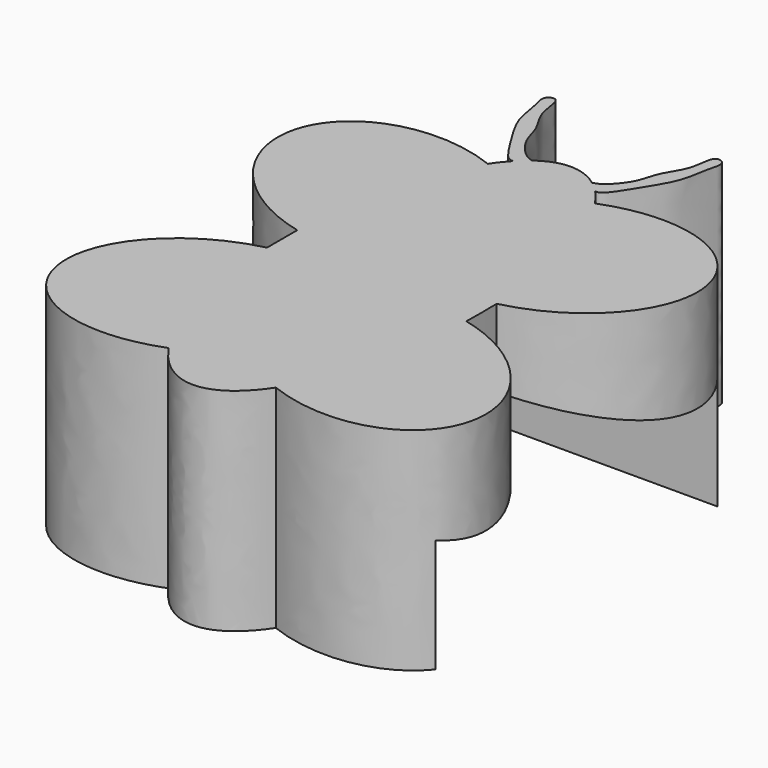
from build123d import *

# Parameters (mm, degrees)
F1_DEPTH = 3
F2_R     = 10
F3_DEPTH = 2.5


with BuildPart() as f1:
    # F0 (on Top) → F1 (new body)
    with BuildSketch(Plane.XY):
        with BuildLine():
            add(Edge.make_bspline(
                [(-0.5790027714, 3.0560637008), (-0.6725914684, 2.9570772689), (-0.7591741745, 2.8272886972)],
                knots=[3.562487737, 3.562487737, 3.562487737, 3.7069491338, 3.7069491338, 3.7069491338], degree=2, weights=[1, 0.9973924971, 1]))
            add(Edge.make_bspline(
                [(-0.7591741745, 2.8272886972), (-2.5828488582, 3.5416014848), (-2.9434149933, 2.1294046992), (-3.3039811285, 0.7172079135), (-1.4125643121, 0.2682146132)],
                knots=[1.5654655575, 1.5654655575, 1.5654655575, 3.2303391632, 3.2303391632, 4.8952127689, 4.8952127689, 4.8952127689], degree=2, weights=[1, 0.6730755649, 1, 0.6730755649, 1]))
            Line((-1.4125643121, 0.2682146132), (-1.4125643121, -0.2682146132))
            add(Edge.make_bspline(
                [(-1.4125643121, -0.2682146132), (-3.3039811285, -0.7172079135), (-2.9434149933, -2.1294046992), (-2.5828488582, -3.5416014848), (-0.7591741745, -2.8272886972)],
                knots=[1.3879725383, 1.3879725383, 1.3879725383, 3.052846144, 3.052846144, 4.7177197497, 4.7177197497, 4.7177197497], degree=2, weights=[1, 0.6730755649, 1, 0.6730755649, 1]))
            add(Edge.make_bspline(
                [(-0.7591741745, -2.8272886972), (0, -3.9653003882), (0.7591741745, -2.8272886972)],
                knots=[5.7178288269, 5.7178288269, 5.7178288269, 6.8485417874, 6.8485417874, 6.8485417874], degree=2, weights=[1, 0.8443976816, 1]))
            add(Edge.make_bspline(
                [(0.7591741745, -2.8272886972), (2.5828488582, -3.5416014848), (2.9434149933, -2.1294046992), (3.3039811285, -0.7172079135), (1.4125643121, -0.2682146132)],
                knots=[1.5654655575, 1.5654655575, 1.5654655575, 3.2303391632, 3.2303391632, 4.8952127689, 4.8952127689, 4.8952127689], degree=2, weights=[1, 0.6730755649, 1, 0.6730755649, 1]))
            add(Edge.make_bspline(
                [(1.4125643121, -0.2682146132), (1.4216869957, 0), (1.4125643121, 0.2682146132)],
                knots=[1.4906054667, 1.4906054667, 1.4906054667, 1.6509871869, 1.6509871869, 1.6509871869], degree=2, weights=[1, 0.9967864356, 1]))
            add(Edge.make_bspline(
                [(1.4125643121, 0.2682146132), (3.3039811285, 0.7172079135), (2.9434149933, 2.1294046992), (2.5828488582, 3.5416014848), (0.7591741745, 2.8272886972)],
                knots=[1.3879725383, 1.3879725383, 1.3879725383, 3.052846144, 3.052846144, 4.7177197497, 4.7177197497, 4.7177197497], degree=2, weights=[1, 0.6730755649, 1, 0.6730755649, 1]))
            add(Edge.make_bspline(
                [(0.7591741745, 2.8272886972), (0.6725914684, 2.9570772689), (0.5790027714, 3.0560637008)],
                knots=[2.5762361733, 2.5762361733, 2.5762361733, 2.7206975702, 2.7206975702, 2.7206975702], degree=2, weights=[1, 0.9973924971, 1]))
            add(Edge.make_bspline(
                [(0.4341943598, 3.1872553646), (0.4347281823, 3.1570652587), (0.5124366951, 3.0679820909), (0.5790027714, 3.0560637008)],
                knots=[0.9294135697, 0.9294135697, 0.9294135697, 0.9294135697, 1, 1, 1, 1], degree=3))
            add(Edge.make_bspline(
                [(0.4341943598, 3.1872553646), (0, 3.5174617927), (-0.4341943598, 3.1872553646)],
                knots=[2.830191759, 2.830191759, 2.830191759, 3.4529935482, 3.4529935482, 3.4529935482], degree=2, weights=[1, 0.9519052806, 1]))
            add(Edge.make_bspline(
                [(-0.4341943598, 3.1872553646), (-0.4347281823, 3.1570652587), (-0.5124366951, 3.0679820909), (-0.5790027714, 3.0560637008)],
                knots=[0.9294135697, 0.9294135697, 0.9294135697, 0.9294135697, 1, 1, 1, 1], degree=3))
        make_face()
        with BuildLine():
            add(Edge.make_bspline(
                [(-0.5790027714, 3.0560637008), (-0.6504709908, 3.0432676015), (-0.7779488863, 3.2088605935), (-0.9234481078, 3.4512745068), (-1.1884969748, 3.8671369216), (-1.2026374207, 4.2196155932), (-1.3061198694, 4.4709843302), (-1.0777874945, 4.5578217976), (-1.0935408158, 4.1325563249), (-0.8426672982, 3.839345852), (-0.809412939, 3.5026167903), (-0.519946565, 3.1979048552), (-0.4338910252, 3.2044103243), (-0.4341943598, 3.1872553646)],
                knots=[0, 0, 0, 0, 0.0757846453, 0.1647930939, 0.2753717663, 0.3723905337, 0.4482613591, 0.5031732576, 0.5956835812, 0.6954334806, 0.7891905912, 0.8893041585, 0.9294135697, 0.9294135697, 0.9294135697, 0.9294135697], degree=3))
            add(Edge.make_bspline(
                [(-0.4341943598, 3.1872553646), (-0.4347281823, 3.1570652587), (-0.5124366951, 3.0679820909), (-0.5790027714, 3.0560637008)],
                knots=[0.9294135697, 0.9294135697, 0.9294135697, 0.9294135697, 1, 1, 1, 1], degree=3))
        make_face()
        with BuildLine():
            add(Edge.make_bspline(
                [(0.5790027714, 3.0560637008), (0.6504709908, 3.0432676015), (0.7779488863, 3.2088605935), (0.9234481078, 3.4512745068), (1.1884969748, 3.8671369216), (1.2026374207, 4.2196155932), (1.3061198694, 4.4709843302), (1.0777874945, 4.5578217976), (1.0935408158, 4.1325563249), (0.8426672982, 3.839345852), (0.809412939, 3.5026167903), (0.519946565, 3.1979048552), (0.4338910252, 3.2044103243), (0.4341943598, 3.1872553646)],
                knots=[0, 0, 0, 0, 0.0757846453, 0.1647930939, 0.2753717663, 0.3723905337, 0.4482613591, 0.5031732576, 0.5956835812, 0.6954334806, 0.7891905912, 0.8893041585, 0.9294135697, 0.9294135697, 0.9294135697, 0.9294135697], degree=3))
            add(Edge.make_bspline(
                [(0.4341943598, 3.1872553646), (0.4347281823, 3.1570652587), (0.5124366951, 3.0679820909), (0.5790027714, 3.0560637008)],
                knots=[0.9294135697, 0.9294135697, 0.9294135697, 0.9294135697, 1, 1, 1, 1], degree=3))
        make_face()
    extrude(amount=F1_DEPTH)

    # F2 (on Front) → F3 (cut, symmetric)
    with BuildSketch(Plane.XZ):
        with Locations((0, -8)):
            Circle(F2_R)
    extrude(amount=F3_DEPTH, both=True, mode=Mode.SUBTRACT)


solid = f1.part
